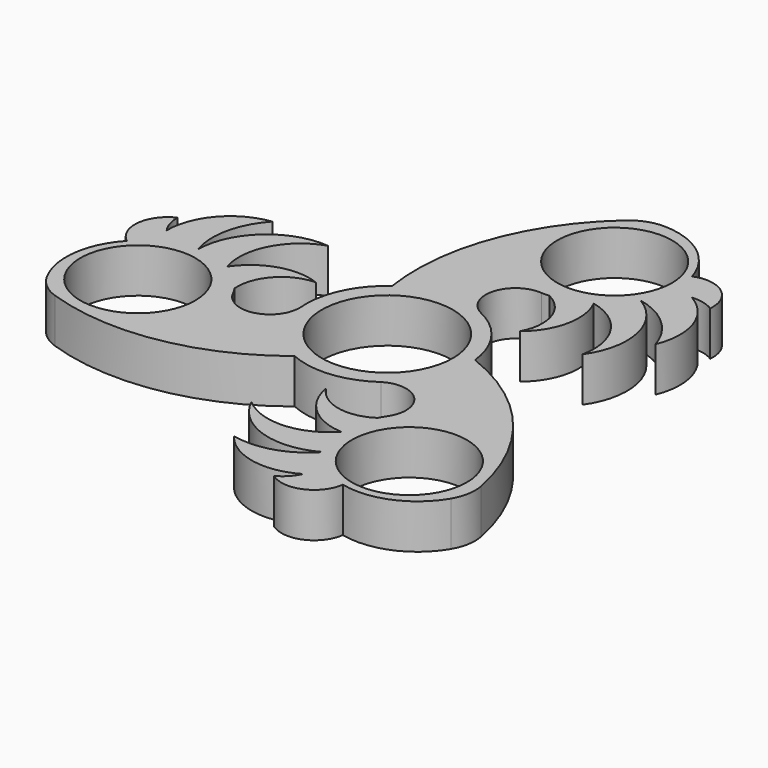
from build123d import *

# Parameters (mm, degrees)
F0_R     = 9.8679
F0_R_2   = 11.25
F1_DEPTH = 7.62
F2_R     = 7.62


with BuildPart() as f1:
    # F0 (on Top) → F1 (new body)
    with BuildSketch(Plane.XY):
        with BuildLine():
            ThreePointArc((-43.9675390459, -18.2733148979), (-24.0769783095, -20.7336914411), (-5.6897763655, -12.7588144007))
            ThreePointArc((-5.6897763655, -12.7588144007), (-11.3636627485, -8.1257657448), (-13.9131894177, -1.2585945443))
            ThreePointArc((-13.9131894177, -1.2585945443), (-17.7883649195, -6.3661757884), (-23.5779527058, -3.6120798208))
            ThreePointArc((-23.5779527058, -3.6120798208), (-23.9117664703, -3.0016925054), (-24.27850376, -2.4105004347))
            ThreePointArc((-24.27850376, -2.4105004347), (-26.3622058351, 0.0187882898), (-28.9870638751, 1.8500114644))
            ThreePointArc((-28.9870638751, 1.8500114644), (-31.9863775374, 2.9668711691), (-35.1696654297, 3.2984375125))
            ThreePointArc((-35.1696654297, 3.2984375125), (-36.9929388731, 3.125210966), (-38.772336885, 2.6915334348))
            ThreePointArc((-38.772336885, 2.6915334348), (-40.0568325476, 2.2001090277), (-41.2806580353, 1.5726711973))
            ThreePointArc((-41.2806580353, 1.5726711973), (-42.7921593571, 0.5384095089), (-44.1391793855, -0.7025056892))
            ThreePointArc((-44.1391793855, -0.7025056892), (-47.5826237378, -9.5223858919), (-43.9675390459, -18.2733148979))
        make_face()
        with Locations((-36.0358898416, -8.480387548)):
            Circle(F0_R, mode=Mode.SUBTRACT)
        with BuildLine():
            ThreePointArc((8.0465695573, -11.4198782113), (12.4010377936, -6.4323527299), (13.97, 0))
            ThreePointArc((13.97, 0), (13.9510735733, 0.7269430186), (13.8943455759, 1.4519163259))
            ThreePointArc((13.8943455759, 1.4519163259), (11.3636627485, 8.1257657448), (5.8666198604, 12.6784727555))
            ThreePointArc((5.8666198604, 12.6784727555), (-1.355288186, 13.9041034926), (-8.2045692104, 11.3068980747))
            ThreePointArc((-8.2045692104, 11.3068980747), (-12.7189509344, 5.7783377478), (-13.9131894177, -1.2585945443))
            ThreePointArc((-13.9131894177, -1.2585945443), (-11.3636627485, -8.1257657448), (-5.6897763655, -12.7588144007))
            ThreePointArc((-5.6897763655, -12.7588144007), (1.355288186, -13.9041034926), (8.0465695573, -11.4198782113))
        make_face()
        Circle(F0_R_2, mode=Mode.SUBTRACT)
        with BuildLine():
            ThreePointArc((-43.025617844, 8.8228840299), (-46.2565836802, 4.3728136122), (-44.1391793855, -0.7025056892))
            ThreePointArc((-44.1391793855, -0.7025056892), (-42.7921593571, 0.5384095089), (-41.2806580353, 1.5726711973))
            ThreePointArc((-41.2806580353, 1.5726711973), (-41.7197337386, 3.26892729), (-41.8789534473, 5.0138402649))
            ThreePointArc((-41.8789534473, 5.0138402649), (-42.7619749641, 6.8251340993), (-43.025617844, 8.8228840299))
        make_face()
        with BuildLine():
            ThreePointArc((-32.4148590407, 15.8445106758), (-39.2100586679, 12.2320065578), (-41.8789534473, 5.0138402649))
            ThreePointArc((-41.8789534473, 5.0138402649), (-40.5095024441, 3.6067356872), (-38.772336885, 2.6915334348))
            ThreePointArc((-38.772336885, 2.6915334348), (-36.9929388731, 3.125210966), (-35.1696654297, 3.2984375125))
            ThreePointArc((-35.1696654297, 3.2984375125), (-35.4953325875, 9.945426089), (-32.4148590407, 15.8445106758))
        make_face()
        with BuildLine():
            ThreePointArc((-41.8789534473, 5.0138402649), (-41.7197337386, 3.26892729), (-41.2806580353, 1.5726711973))
            ThreePointArc((-41.2806580353, 1.5726711973), (-40.0568325476, 2.2001090277), (-38.772336885, 2.6915334348))
            ThreePointArc((-38.772336885, 2.6915334348), (-40.5095024441, 3.6067356872), (-41.8789534473, 5.0138402649))
        make_face()
        with BuildLine():
            ThreePointArc((-35.1696654297, 3.2984375125), (-31.9863775374, 2.9668711691), (-28.9870638751, 1.8500114644))
            ThreePointArc((-28.9870638751, 1.8500114644), (-28.3049856869, 9.8245411614), (-22.2233339706, 15.0276043883))
            ThreePointArc((-22.2233339706, 15.0276043883), (-31.268583607, 12.0020163498), (-35.1696654297, 3.2984375125))
        make_face()
        with BuildLine():
            ThreePointArc((-28.9870638751, 1.8500114644), (-26.3622058351, 0.0187882898), (-24.27850376, -2.4105004347))
            ThreePointArc((-24.27850376, -2.4105004347), (-22.3038787795, 3.2440665901), (-16.8522933059, 5.7246890677))
            ThreePointArc((-16.8522933059, 5.7246890677), (-23.6023200247, 5.925256444), (-28.9870638751, 1.8500114644))
        make_face()
        with BuildLine():
            ThreePointArc((-8.2045692104, 11.3068980747), (-1.355288186, 13.9041034926), (5.8666198604, 12.6784727555))
            ThreePointArc((5.8666198604, 12.6784727555), (3.3809125021, 18.5882638063), (8.6608234676, 22.2251459229))
            ThreePointArc((8.6608234676, 22.2251459229), (9.3563412711, 22.2090434653), (10.0516972677, 22.2310512394))
            ThreePointArc((10.0516972677, 22.2310512394), (13.1973740538, 22.8209458081), (16.095688863, 24.1785279647))
            ThreePointArc((16.095688863, 24.1785279647), (18.5625745709, 26.2175799379), (20.4413633934, 28.8086049485))
            ThreePointArc((20.4413633934, 28.8086049485), (21.2029815253, 30.4742193418), (21.7171047722, 32.2320619891))
            ThreePointArc((21.7171047722, 32.2320619891), (21.9337665829, 33.5901800675), (22.0023022263, 34.9637629448))
            ThreePointArc((22.0023022263, 34.9637629448), (21.8623559909, 36.7898923316), (21.4612019196, 38.5769034946))
            ThreePointArc((21.4612019196, 38.5769034946), (15.5446837819, 45.9689538816), (6.15861461, 47.2136632046))
            ThreePointArc((6.15861461, 47.2136632046), (-5.9174143474, 31.218120583), (-8.2045692104, 11.3068980747))
        make_face()
        with Locations((10.6737138703, 35.4481898248)):
            Circle(F0_R, mode=Mode.SUBTRACT)
        with BuildLine():
            ThreePointArc((13.8943455759, 1.4519163259), (13.9510735733, 0.7269430186), (13.97, 0))
            ThreePointArc((13.97, 0), (12.4010377936, -6.4323527299), (8.0465695573, -11.4198782113))
            ThreePointArc((8.0465695573, -11.4198782113), (14.4074524174, -12.2220880179), (14.9171292382, -18.6130661021))
            ThreePointArc((14.9171292382, -18.6130661021), (14.5554251992, -19.2073509599), (14.2268064923, -19.8205508047))
            ThreePointArc((14.2268064923, -19.8205508047), (13.1648317813, -22.8397340979), (12.891375012, -26.0285394291))
            ThreePointArc((12.891375012, -26.0285394291), (13.4238029666, -29.184451107), (14.7283020363, -32.1070424609))
            ThreePointArc((14.7283020363, -32.1070424609), (15.7899573478, -33.5994303078), (17.0552321128, -34.9235954239))
            ThreePointArc((17.0552321128, -34.9235954239), (18.1230659647, -35.7902890953), (19.278355809, -36.5364341421))
            ThreePointArc((19.278355809, -36.5364341421), (20.9298033662, -37.3283018405), (22.6779774659, -37.8743978054))
            ThreePointArc((22.6779774659, -37.8743978054), (32.0379399559, -36.4465679897), (37.8089244359, -28.9403483066))
            ThreePointArc((37.8089244359, -28.9403483066), (29.994392657, -10.4844291419), (13.8943455759, 1.4519163259))
        make_face()
        with Locations((25.3621759713, -26.9678022769)):
            Circle(F0_R, mode=Mode.SUBTRACT)
        with BuildLine():
            ThreePointArc((29.1536506265, 32.8498360514), (26.9152595143, 37.8729697533), (21.4612019196, 38.5769034946))
            ThreePointArc((21.4612019196, 38.5769034946), (21.8623559909, 36.7898923316), (22.0023022263, 34.9637629448))
            ThreePointArc((22.0023022263, 34.9637629448), (23.6908409456, 34.4958856118), (25.2815897635, 33.7613174369))
            ThreePointArc((25.2815897635, 33.7613174369), (27.2917269962, 33.6203895852), (29.1536506265, 32.8498360514))
        make_face()
        with BuildLine():
            ThreePointArc((21.7171047722, 32.2320619891), (21.2029815253, 30.4742193418), (20.4413633934, 28.8086049485))
            ThreePointArc((20.4413633934, 28.8086049485), (26.3606579383, 25.7671466921), (29.9291782762, 20.1498360514))
            ThreePointArc((29.9291782762, 20.1498360514), (30.1982577523, 27.8409036114), (25.2815897635, 33.7613174369))
            ThreePointArc((25.2815897635, 33.7613174369), (23.3782759519, 33.2788903677), (21.7171047722, 32.2320619891))
        make_face()
        with BuildLine():
            ThreePointArc((20.4413633934, 28.8086049485), (18.5625745709, 26.2175799379), (16.095688863, 24.1785279647))
            ThreePointArc((16.095688863, 24.1785279647), (22.6607950698, 19.6005660779), (24.1259541436, 11.7321695811))
            ThreePointArc((24.1259541436, 11.7321695811), (26.028342859, 21.0783795691), (20.4413633934, 28.8086049485))
        make_face()
        with BuildLine():
            ThreePointArc((16.095688863, 24.1785279647), (13.1973740538, 22.8209458081), (10.0516972677, 22.2310512394))
            ThreePointArc((10.0516972677, 22.2310512394), (13.9613834684, 17.6936923309), (13.3838728144, 11.7321695811))
            ThreePointArc((13.3838728144, 11.7321695811), (16.9325826168, 17.4775805077), (16.095688863, 24.1785279647))
        make_face()
        with BuildLine():
            ThreePointArc((25.2815897635, 33.7613174369), (23.6908409456, 34.4958856118), (22.0023022263, 34.9637629448))
            ThreePointArc((22.0023022263, 34.9637629448), (21.9337665829, 33.5901800675), (21.7171047722, 32.2320619891))
            ThreePointArc((21.7171047722, 32.2320619891), (23.3782759519, 33.2788903677), (25.2815897635, 33.7613174369))
        make_face()
        with BuildLine():
            ThreePointArc((12.891375012, -26.0285394291), (13.1648317813, -22.8397340979), (14.2268064923, -19.8205508047))
            ThreePointArc((14.2268064923, -19.8205508047), (8.3424953112, -20.937758921), (3.4684204916, -17.4568586488))
            ThreePointArc((3.4684204916, -17.4568586488), (6.6697374079, -23.4028369517), (12.891375012, -26.0285394291))
        make_face()
        with BuildLine():
            ThreePointArc((14.7283020363, -32.1070424609), (13.4238029666, -29.184451107), (12.891375012, -26.0285394291))
            ThreePointArc((12.891375012, -26.0285394291), (5.6441906172, -29.4251072393), (-1.902620173, -26.7597739695))
            ThreePointArc((-1.902620173, -26.7597739695), (5.240240748, -33.0803959189), (14.7283020363, -32.1070424609))
        make_face()
        with BuildLine():
            ThreePointArc((13.8719672174, -41.6727200814), (19.341324166, -42.2457833654), (22.6779774659, -37.8743978054))
            ThreePointArc((22.6779774659, -37.8743978054), (20.9298033662, -37.3283018405), (19.278355809, -36.5364341421))
            ThreePointArc((19.278355809, -36.5364341421), (18.028892793, -37.7648129018), (16.5973636838, -38.7751577017))
            ThreePointArc((16.5973636838, -38.7751577017), (15.4702479678, -40.4455236845), (13.8719672174, -41.6727200814))
        make_face()
        with BuildLine():
            ThreePointArc((2.4856807646, -35.9943467273), (9.0118009156, -40.0729101692), (16.5973636838, -38.7751577017))
            ThreePointArc((16.5973636838, -38.7751577017), (17.1312264922, -36.8856260549), (17.0552321128, -34.9235954239))
            ThreePointArc((17.0552321128, -34.9235954239), (15.7899573478, -33.5994303078), (14.7283020363, -32.1070424609))
            ThreePointArc((14.7283020363, -32.1070424609), (9.1346746492, -35.7125727811), (2.4856807646, -35.9943467273))
        make_face()
        with BuildLine():
            ThreePointArc((16.5973636838, -38.7751577017), (18.028892793, -37.7648129018), (19.278355809, -36.5364341421))
            ThreePointArc((19.278355809, -36.5364341421), (18.1230659647, -35.7902890953), (17.0552321128, -34.9235954239))
            ThreePointArc((17.0552321128, -34.9235954239), (17.1312264922, -36.8856260549), (16.5973636838, -38.7751577017))
        make_face()
    extrude(amount=F1_DEPTH)

    # F2
    f2_edges = [f1.edges().sort_by_distance(p)[0] for p in [
        (37.808924, -28.940348, 3.81),
        (6.158615, 47.213663, 3.81),
        (-43.967539, -18.273315, 3.81),
    ]]
    fillet(f2_edges, radius=F2_R)


solid = f1.part
